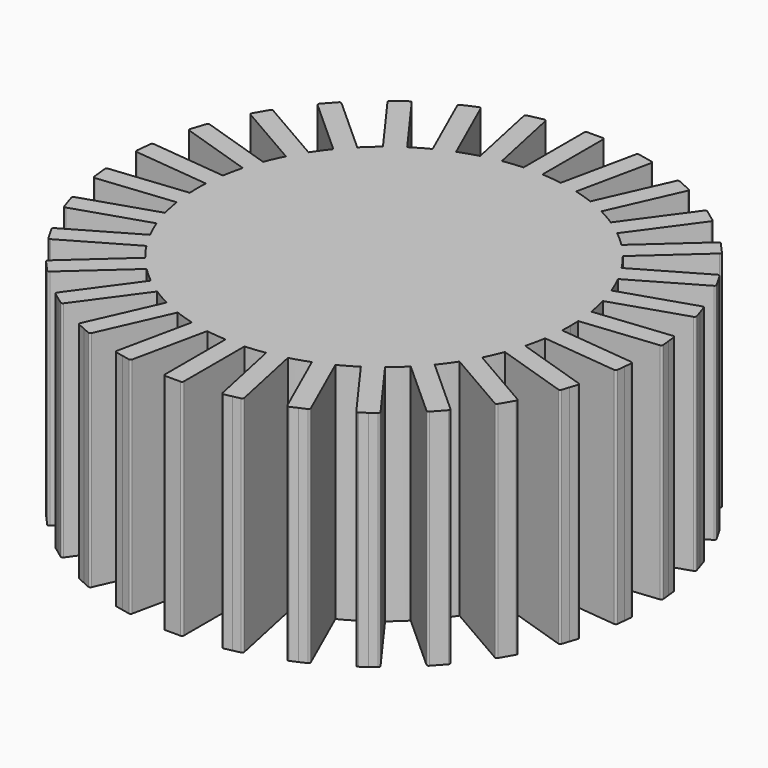
from build123d import *

# Parameters (mm, degrees)
F1_DEPTH = 3


with BuildPart() as f1:
    # F0 (on Top) → F1 (new body)
    with BuildSketch(Plane.XY):
        with BuildLine():
            ThreePointArc((2.4963696521, -0.1346794717), (2.4990922482, -0.0673641958), (2.5, 0))
            ThreePointArc((2.5, 0), (2.4990922482, 0.0673641958), (2.4963696521, 0.1346794717))
            ThreePointArc((2.4963696521, 0.1346794717), (2.4863047384, 0.2613211582), (2.4698194224, 0.3872880331))
            ThreePointArc((2.4698194224, 0.3872880331), (2.4453690018, 0.519779227), (2.4138165491, 0.6507608374))
            ThreePointArc((2.4138165491, 0.6507608374), (2.3776412907, 0.7725424859), (2.3353262325, 0.8923291925))
            ThreePointArc((2.3353262325, 0.8923291925), (2.2838636441, 1.0168416077), (2.22576808, 1.1384008318))
            ThreePointArc((2.22576808, 1.1384008318), (2.1650635095, 1.25), (2.09876808, 1.3583712844))
            ThreePointArc((2.09876808, 1.3583712844), (2.0225424859, 1.4694631307), (1.9404428655, 1.5762872472))
            ThreePointArc((1.9404428655, 1.5762872472), (1.8578620637, 1.6728265159), (1.7704836915, 1.7650460329))
            ThreePointArc((1.7704836915, 1.7650460329), (1.6728265159, 1.8578620637), (1.5703109865, 1.945282346))
            ThreePointArc((1.5703109865, 1.945282346), (1.4694631307, 2.0225424859), (1.3648206699, 2.0945798001))
            ThreePointArc((1.3648206699, 2.0945798001), (1.25, 2.1650635095), (1.1315489822, 2.2292592718))
            ThreePointArc((1.1315489822, 2.2292592718), (1.0168416077, 2.2838636441), (0.8995084359, 2.3325703792))
            ThreePointArc((0.8995084359, 2.3325703792), (0.7725424859, 2.3776412907), (0.6433328575, 2.4158068703))
            ThreePointArc((0.6433328575, 2.4158068703), (0.519779227, 2.4453690018), (0.394883367, 2.4686164397))
            ThreePointArc((0.394883367, 2.4686164397), (0.2613211582, 2.4863047384), (0.127, 2.4967721162))
            ThreePointArc((0.127, 2.4967721162), (0.0381834676, 2.4997083876), (-0.0506813104, 2.4994862282))
            Line((-0.0506813104, 2.4994862282), (-0.127, 2.4967721162))
            ThreePointArc((-0.127, 2.4967721162), (-0.2613211582, 2.4863047384), (-0.394883367, 2.4686164397))
            ThreePointArc((-0.394883367, 2.4686164397), (-0.519779227, 2.4453690018), (-0.6433328575, 2.4158068703))
            ThreePointArc((-0.6433328575, 2.4158068703), (-0.7725424859, 2.3776412907), (-0.8995084359, 2.3325703792))
            ThreePointArc((-0.8995084359, 2.3325703792), (-1.0168416077, 2.2838636441), (-1.1315489822, 2.2292592718))
            ThreePointArc((-1.1315489822, 2.2292592718), (-1.25, 2.1650635095), (-1.3648206699, 2.0945798001))
            ThreePointArc((-1.3648206699, 2.0945798001), (-1.4694631307, 2.0225424859), (-1.5703109865, 1.945282346))
            ThreePointArc((-1.5703109865, 1.945282346), (-1.6728265159, 1.8578620637), (-1.7704836915, 1.7650460329))
            ThreePointArc((-1.7704836915, 1.7650460329), (-1.8578620637, 1.6728265159), (-1.9404428655, 1.5762872472))
            ThreePointArc((-1.9404428655, 1.5762872472), (-2.0225424859, 1.4694631307), (-2.09876808, 1.3583712844))
            ThreePointArc((-2.09876808, 1.3583712844), (-2.1650635095, 1.25), (-2.22576808, 1.1384008318))
            ThreePointArc((-2.22576808, 1.1384008318), (-2.2838636441, 1.0168416077), (-2.3353262325, 0.8923291925))
            ThreePointArc((-2.3353262325, 0.8923291925), (-2.3776412907, 0.7725424859), (-2.4138165491, 0.6507608374))
            ThreePointArc((-2.4138165491, 0.6507608374), (-2.4453690018, 0.519779227), (-2.4698194224, 0.3872880331))
            ThreePointArc((-2.4698194224, 0.3872880331), (-2.4863047384, 0.2613211582), (-2.4963696521, 0.1346794717))
            ThreePointArc((-2.4963696521, 0.1346794717), (-2.5, 0), (-2.4963696521, -0.1346794717))
            ThreePointArc((-2.4963696521, -0.1346794717), (-2.4863047384, -0.2613211582), (-2.4698194224, -0.3872880331))
            ThreePointArc((-2.4698194224, -0.3872880331), (-2.4453690018, -0.519779227), (-2.4138165491, -0.6507608374))
            ThreePointArc((-2.4138165491, -0.6507608374), (-2.3776412907, -0.7725424859), (-2.3353262325, -0.8923291925))
            ThreePointArc((-2.3353262325, -0.8923291925), (-2.2838636441, -1.0168416077), (-2.22576808, -1.1384008318))
            ThreePointArc((-2.22576808, -1.1384008318), (-2.1650635095, -1.25), (-2.09876808, -1.3583712844))
            ThreePointArc((-2.09876808, -1.3583712844), (-2.0225424859, -1.4694631307), (-1.9404428655, -1.5762872472))
            ThreePointArc((-1.9404428655, -1.5762872472), (-1.8578620637, -1.6728265159), (-1.7704836915, -1.7650460329))
            ThreePointArc((-1.7704836915, -1.7650460329), (-1.6728265159, -1.8578620637), (-1.5703109865, -1.945282346))
            ThreePointArc((-1.5703109865, -1.945282346), (-1.4694631307, -2.0225424859), (-1.3648206699, -2.0945798001))
            ThreePointArc((-1.3648206699, -2.0945798001), (-1.25, -2.1650635095), (-1.1315489822, -2.2292592718))
            ThreePointArc((-1.1315489822, -2.2292592718), (-1.0168416077, -2.2838636441), (-0.8995084359, -2.3325703792))
            ThreePointArc((-0.8995084359, -2.3325703792), (-0.7725424859, -2.3776412907), (-0.6433328575, -2.4158068703))
            ThreePointArc((-0.6433328575, -2.4158068703), (-0.519779227, -2.4453690018), (-0.394883367, -2.4686164397))
            ThreePointArc((-0.394883367, -2.4686164397), (-0.2613211582, -2.4863047384), (-0.127, -2.4967721162))
            ThreePointArc((-0.127, -2.4967721162), (0, -2.5), (0.127, -2.4967721162))
            ThreePointArc((0.127, -2.4967721162), (0.2613211582, -2.4863047384), (0.394883367, -2.4686164397))
            ThreePointArc((0.394883367, -2.4686164397), (0.519779227, -2.4453690018), (0.6433328575, -2.4158068703))
            ThreePointArc((0.6433328575, -2.4158068703), (0.7725424859, -2.3776412907), (0.8995084359, -2.3325703792))
            ThreePointArc((0.8995084359, -2.3325703792), (1.0168416077, -2.2838636441), (1.1315489822, -2.2292592718))
            ThreePointArc((1.1315489822, -2.2292592718), (1.25, -2.1650635095), (1.3648206699, -2.0945798001))
            ThreePointArc((1.3648206699, -2.0945798001), (1.4694631307, -2.0225424859), (1.5703109865, -1.945282346))
            ThreePointArc((1.5703109865, -1.945282346), (1.6728265159, -1.8578620637), (1.7704836915, -1.7650460329))
            ThreePointArc((1.7704836915, -1.7650460329), (1.8578620637, -1.6728265159), (1.9404428655, -1.5762872472))
            ThreePointArc((1.9404428655, -1.5762872472), (2.0225424859, -1.4694631307), (2.09876808, -1.3583712844))
            ThreePointArc((2.09876808, -1.3583712844), (2.1650635095, -1.25), (2.22576808, -1.1384008318))
            ThreePointArc((2.22576808, -1.1384008318), (2.2838636441, -1.0168416077), (2.3353262325, -0.8923291925))
            ThreePointArc((2.3353262325, -0.8923291925), (2.3776412907, -0.7725424859), (2.4138165491, -0.6507608374))
            ThreePointArc((2.4138165491, -0.6507608374), (2.4453690018, -0.519779227), (2.4698194224, -0.3872880331))
            ThreePointArc((2.4698194224, -0.3872880331), (2.4863047384, -0.2613211582), (2.4963696521, -0.1346794717))
        make_face()
        with BuildLine():
            ThreePointArc((2.4698194224, 0.3872880331), (2.4863047384, 0.2613211582), (2.4963696521, 0.1346794717))
            Line((2.4963696521, 0.1346794717), (3.5068038978, 0.2408803904))
            ThreePointArc((3.5068038978, 0.2408803904), (3.5238883822, 0.2501565086), (3.529409731, 0.2687962695))
            Line((3.529409731, 0.2687962695), (3.5187896391, 0.3698396941))
            Line((3.5187896391, 0.3698396941), (3.5081695472, 0.4708831186))
            ThreePointArc((3.5081695472, 0.4708831186), (3.498893429, 0.4879676031), (3.4802536681, 0.4934889518))
            Line((3.4802536681, 0.4934889518), (2.4698194224, 0.3872880331))
        make_face()
        with BuildLine():
            Line((3.5068038978, -0.2408803904), (2.4963696521, -0.1346794717))
            ThreePointArc((2.4963696521, -0.1346794717), (2.4863047384, -0.2613211582), (2.4698194224, -0.3872880331))
            Line((2.4698194224, -0.3872880331), (3.4802536681, -0.4934889518))
            ThreePointArc((3.4802536681, -0.4934889518), (3.498893429, -0.4879676031), (3.5081695472, -0.4708831186))
            Line((3.5081695472, -0.4708831186), (3.5187896391, -0.3698396941))
            Line((3.5187896391, -0.3698396941), (3.529409731, -0.2687962695))
            ThreePointArc((3.529409731, -0.2687962695), (3.5238883822, -0.2501565086), (3.5068038978, -0.2408803904))
        make_face()
        with BuildLine():
            ThreePointArc((2.3353262325, 0.8923291925), (2.3776412907, 0.7725424859), (2.4138165491, 0.6507608374))
            Line((2.4138165491, 0.6507608374), (3.3800899696, 0.9647221037))
            ThreePointArc((3.3800899696, 0.9647221037), (3.3948725037, 0.9773475805), (3.3963977735, 0.9967279709))
            Line((3.3963977735, 0.9967279709), (3.3650016468, 1.0933553129))
            Line((3.3650016468, 1.0933553129), (3.3336055202, 1.189982655))
            ThreePointArc((3.3336055202, 1.189982655), (3.3209800434, 1.204765189), (3.301599653, 1.2062904588))
            Line((3.301599653, 1.2062904588), (2.3353262325, 0.8923291925))
        make_face()
        with BuildLine():
            Line((3.3800899696, -0.9647221037), (2.4138165491, -0.6507608374))
            ThreePointArc((2.4138165491, -0.6507608374), (2.3776412907, -0.7725424859), (2.3353262325, -0.8923291925))
            Line((2.3353262325, -0.8923291925), (3.301599653, -1.2062904588))
            ThreePointArc((3.301599653, -1.2062904588), (3.3209800434, -1.204765189), (3.3336055202, -1.189982655))
            Line((3.3336055202, -1.189982655), (3.3650016468, -1.0933553129))
            Line((3.3650016468, -1.0933553129), (3.3963977735, -0.9967279709))
            ThreePointArc((3.3963977735, -0.9967279709), (3.3948725037, -0.9773475805), (3.3800899696, -0.9647221037))
        make_face()
        with BuildLine():
            ThreePointArc((2.09876808, 1.3583712844), (2.1650635095, 1.25), (2.22576808, 1.1384008318))
            Line((2.22576808, 1.1384008318), (3.1056498903, 1.6464008318))
            ThreePointArc((3.1056498903, 1.6464008318), (3.1174844063, 1.6618238733), (3.1149469356, 1.6810978771))
            Line((3.1149469356, 1.6810978771), (3.0641469356, 1.7690860581))
            Line((3.0641469356, 1.7690860581), (3.0133469356, 1.8570742391))
            ThreePointArc((3.0133469356, 1.8570742391), (2.997923894, 1.8689087551), (2.9786498903, 1.8663712844))
            Line((2.9786498903, 1.8663712844), (2.09876808, 1.3583712844))
        make_face()
        with BuildLine():
            Line((3.1056498903, -1.6464008318), (2.22576808, -1.1384008318))
            ThreePointArc((2.22576808, -1.1384008318), (2.1650635095, -1.25), (2.09876808, -1.3583712844))
            Line((2.09876808, -1.3583712844), (2.9786498903, -1.8663712844))
            ThreePointArc((2.9786498903, -1.8663712844), (2.997923894, -1.8689087551), (3.0133469356, -1.8570742391))
            Line((3.0133469356, -1.8570742391), (3.0641469356, -1.7690860581))
            Line((3.0641469356, -1.7690860581), (3.1149469356, -1.6810978771))
            ThreePointArc((3.1149469356, -1.6810978771), (3.1174844063, -1.6618238733), (3.1056498903, -1.6464008318))
        make_face()
        with BuildLine():
            ThreePointArc((1.7704836915, 1.7650460329), (1.8578620637, 1.6728265159), (1.9404428655, 1.5762872472))
            Line((1.9404428655, 1.5762872472), (2.6954780082, 2.2561239432))
            ThreePointArc((2.6954780082, 2.2561239432), (2.703847281, 2.2736704885), (2.6973579694, 2.2919957392))
            Line((2.6973579694, 2.2919957392), (2.6293742998, 2.3674992535))
            Line((2.6293742998, 2.3674992535), (2.5613906302, 2.4430027678))
            ThreePointArc((2.5613906302, 2.4430027678), (2.5438440849, 2.4513720405), (2.5255188342, 2.4448827289))
            Line((2.5255188342, 2.4448827289), (1.7704836915, 1.7650460329))
        make_face()
        with BuildLine():
            Line((2.6954780082, -2.2561239432), (1.9404428655, -1.5762872472))
            ThreePointArc((1.9404428655, -1.5762872472), (1.8578620637, -1.6728265159), (1.7704836915, -1.7650460329))
            Line((1.7704836915, -1.7650460329), (2.5255188342, -2.4448827289))
            ThreePointArc((2.5255188342, -2.4448827289), (2.5438440849, -2.4513720405), (2.5613906302, -2.4430027678))
            Line((2.5613906302, -2.4430027678), (2.6293742998, -2.3674992535))
            Line((2.6293742998, -2.3674992535), (2.6973579694, -2.2919957392))
            ThreePointArc((2.6973579694, -2.2919957392), (2.703847281, -2.2736704885), (2.6954780082, -2.2561239432))
        make_face()
        with BuildLine():
            ThreePointArc((1.3648206699, 2.0945798001), (1.4694631307, 2.0225424859), (1.5703109865, 1.945282346))
            Line((1.5703109865, 1.945282346), (2.1675008028, 2.7672436123))
            ThreePointArc((2.1675008028, 2.7672436123), (2.172039055, 2.7861467931), (2.1618815166, 2.8027223894))
            Line((2.1618815166, 2.8027223894), (2.0796853899, 2.862441371))
            Line((2.0796853899, 2.862441371), (1.9974892633, 2.9221603526))
            ThreePointArc((1.9974892633, 2.9221603526), (1.9785860825, 2.9266986048), (1.9620104863, 2.9165410664))
            Line((1.9620104863, 2.9165410664), (1.3648206699, 2.0945798001))
        make_face()
        with BuildLine():
            Line((2.1675008028, -2.7672436123), (1.5703109865, -1.945282346))
            ThreePointArc((1.5703109865, -1.945282346), (1.4694631307, -2.0225424859), (1.3648206699, -2.0945798001))
            Line((1.3648206699, -2.0945798001), (1.9620104863, -2.9165410664))
            ThreePointArc((1.9620104863, -2.9165410664), (1.9785860825, -2.9266986048), (1.9974892633, -2.9221603526))
            Line((1.9974892633, -2.9221603526), (2.0796853899, -2.862441371))
            Line((2.0796853899, -2.862441371), (2.1618815166, -2.8027223894))
            ThreePointArc((2.1618815166, -2.8027223894), (2.172039055, -2.7861467931), (2.1675008028, -2.7672436123))
        make_face()
        with BuildLine():
            ThreePointArc((0.8995084359, 2.3325703792), (1.0168416077, 2.2838636441), (1.1315489822, 2.2292592718))
            Line((1.1315489822, 2.2292592718), (1.5447934115, 3.1574214568))
            ThreePointArc((1.5447934115, 3.1574214568), (1.5453022997, 3.1768551134), (1.5319204676, 3.1909566221))
            Line((1.5319204676, 3.1909566221), (1.4391042491, 3.2322810651))
            Line((1.4391042491, 3.2322810651), (1.3462880307, 3.273605508))
            ThreePointArc((1.3462880307, 3.273605508), (1.326854374, 3.2741143962), (1.3127528653, 3.2607325641))
            Line((1.3127528653, 3.2607325641), (0.8995084359, 2.3325703792))
        make_face()
        with BuildLine():
            Line((1.5447934115, -3.1574214568), (1.1315489822, -2.2292592718))
            ThreePointArc((1.1315489822, -2.2292592718), (1.0168416077, -2.2838636441), (0.8995084359, -2.3325703792))
            Line((0.8995084359, -2.3325703792), (1.3127528653, -3.2607325641))
            ThreePointArc((1.3127528653, -3.2607325641), (1.326854374, -3.2741143962), (1.3462880307, -3.273605508))
            Line((1.3462880307, -3.273605508), (1.4391042491, -3.2322810651))
            Line((1.4391042491, -3.2322810651), (1.5319204676, -3.1909566221))
            ThreePointArc((1.5319204676, -3.1909566221), (1.5453022997, -3.1768551134), (1.5447934115, -3.1574214568))
        make_face()
        with BuildLine():
            ThreePointArc((0.394883367, 2.4686164397), (0.519779227, 2.4453690018), (0.6433328575, 2.4158068703))
            Line((0.6433328575, 2.4158068703), (0.8545711354, 3.4096048326))
            ThreePointArc((0.8545711354, 3.4096048326), (0.8510284188, 3.428719621), (0.8350071433, 3.4397307386))
            Line((0.8350071433, 3.4397307386), (0.7356273471, 3.4608545664))
            Line((0.7356273471, 3.4608545664), (0.6362475508, 3.4819783942))
            ThreePointArc((0.6362475508, 3.4819783942), (0.6171327624, 3.4784356776), (0.6061216448, 3.4624144021))
            Line((0.6061216448, 3.4624144021), (0.394883367, 2.4686164397))
        make_face()
        with BuildLine():
            Line((0.8545711354, -3.4096048326), (0.6433328575, -2.4158068703))
            ThreePointArc((0.6433328575, -2.4158068703), (0.519779227, -2.4453690018), (0.394883367, -2.4686164397))
            Line((0.394883367, -2.4686164397), (0.6061216448, -3.4624144021))
            ThreePointArc((0.6061216448, -3.4624144021), (0.6171327624, -3.4784356776), (0.6362475508, -3.4819783942))
            Line((0.6362475508, -3.4819783942), (0.7356273471, -3.4608545664))
            Line((0.7356273471, -3.4608545664), (0.8350071433, -3.4397307386))
            ThreePointArc((0.8350071433, -3.4397307386), (0.8510284188, -3.428719621), (0.8545711354, -3.4096048326))
        make_face()
        with BuildLine():
            ThreePointArc((-0.0506813104, 2.4994862282), (0.0381834676, 2.4997083876), (0.127, 2.4967721162))
            Line((0.127, 2.4967721162), (0.127, 3.5127721162))
            ThreePointArc((0.127, 3.5127721162), (0.1195605122, 3.5307326284), (0.1016, 3.5381721162))
            Line((0.1016, 3.5381721162), (0, 3.5381721162))
            Line((0, 3.5381721162), (-0.1016, 3.5381721162))
            ThreePointArc((-0.1016, 3.5381721162), (-0.1195605122, 3.5307326284), (-0.127, 3.5127721162))
            Line((-0.127, 3.5127721162), (-0.127, 2.4967721162))
            ThreePointArc((-0.127, 2.4967721162), (-0.0888510192, 2.4984206004), (-0.0506813104, 2.4994862282))
        make_face()
        with BuildLine():
            Line((0.127, -3.5127721162), (0.127, -2.4967721162))
            ThreePointArc((0.127, -2.4967721162), (0, -2.5), (-0.127, -2.4967721162))
            Line((-0.127, -2.4967721162), (-0.127, -3.5127721162))
            ThreePointArc((-0.127, -3.5127721162), (-0.1195605122, -3.5307326284), (-0.1016, -3.5381721162))
            Line((-0.1016, -3.5381721162), (0, -3.5381721162))
            Line((0, -3.5381721162), (0.1016, -3.5381721162))
            ThreePointArc((0.1016, -3.5381721162), (0.1195605122, -3.5307326284), (0.127, -3.5127721162))
        make_face()
        with BuildLine():
            Line((-0.127, 2.4967721162), (-0.0506813104, 2.4994862282))
            ThreePointArc((-0.0506813104, 2.4994862282), (-0.0888510192, 2.4984206004), (-0.127, 2.4967721162))
        make_face()
        with BuildLine():
            Line((-0.6061216448, -3.4624144021), (-0.394883367, -2.4686164397))
            ThreePointArc((-0.394883367, -2.4686164397), (-0.519779227, -2.4453690018), (-0.6433328575, -2.4158068703))
            Line((-0.6433328575, -2.4158068703), (-0.8545711354, -3.4096048326))
            ThreePointArc((-0.8545711354, -3.4096048326), (-0.8510284188, -3.428719621), (-0.8350071433, -3.4397307386))
            Line((-0.8350071433, -3.4397307386), (-0.7356273471, -3.4608545664))
            Line((-0.7356273471, -3.4608545664), (-0.6362475508, -3.4819783942))
            ThreePointArc((-0.6362475508, -3.4819783942), (-0.6171327624, -3.4784356776), (-0.6061216448, -3.4624144021))
        make_face()
        with BuildLine():
            ThreePointArc((-0.6433328575, 2.4158068703), (-0.519779227, 2.4453690018), (-0.394883367, 2.4686164397))
            Line((-0.394883367, 2.4686164397), (-0.6061216448, 3.4624144021))
            ThreePointArc((-0.6061216448, 3.4624144021), (-0.6171327624, 3.4784356776), (-0.6362475508, 3.4819783942))
            Line((-0.6362475508, 3.4819783942), (-0.7356273471, 3.4608545664))
            Line((-0.7356273471, 3.4608545664), (-0.8350071433, 3.4397307386))
            ThreePointArc((-0.8350071433, 3.4397307386), (-0.8510284188, 3.428719621), (-0.8545711354, 3.4096048326))
            Line((-0.8545711354, 3.4096048326), (-0.6433328575, 2.4158068703))
        make_face()
        with BuildLine():
            Line((-1.3127528653, -3.2607325641), (-0.8995084359, -2.3325703792))
            ThreePointArc((-0.8995084359, -2.3325703792), (-1.0168416077, -2.2838636441), (-1.1315489822, -2.2292592718))
            Line((-1.1315489822, -2.2292592718), (-1.5447934115, -3.1574214568))
            ThreePointArc((-1.5447934115, -3.1574214568), (-1.5453022997, -3.1768551134), (-1.5319204676, -3.1909566221))
            Line((-1.5319204676, -3.1909566221), (-1.4391042491, -3.2322810651))
            Line((-1.4391042491, -3.2322810651), (-1.3462880307, -3.273605508))
            ThreePointArc((-1.3462880307, -3.273605508), (-1.326854374, -3.2741143962), (-1.3127528653, -3.2607325641))
        make_face()
        with BuildLine():
            ThreePointArc((-1.1315489822, 2.2292592718), (-1.0168416077, 2.2838636441), (-0.8995084359, 2.3325703792))
            Line((-0.8995084359, 2.3325703792), (-1.3127528653, 3.2607325641))
            ThreePointArc((-1.3127528653, 3.2607325641), (-1.326854374, 3.2741143962), (-1.3462880307, 3.273605508))
            Line((-1.3462880307, 3.273605508), (-1.4391042491, 3.2322810651))
            Line((-1.4391042491, 3.2322810651), (-1.5319204676, 3.1909566221))
            ThreePointArc((-1.5319204676, 3.1909566221), (-1.5453022997, 3.1768551134), (-1.5447934115, 3.1574214568))
            Line((-1.5447934115, 3.1574214568), (-1.1315489822, 2.2292592718))
        make_face()
        with BuildLine():
            Line((-1.9620104863, -2.9165410664), (-1.3648206699, -2.0945798001))
            ThreePointArc((-1.3648206699, -2.0945798001), (-1.4694631307, -2.0225424859), (-1.5703109865, -1.945282346))
            Line((-1.5703109865, -1.945282346), (-2.1675008028, -2.7672436123))
            ThreePointArc((-2.1675008028, -2.7672436123), (-2.172039055, -2.7861467931), (-2.1618815166, -2.8027223894))
            Line((-2.1618815166, -2.8027223894), (-2.0796853899, -2.862441371))
            Line((-2.0796853899, -2.862441371), (-1.9974892633, -2.9221603526))
            ThreePointArc((-1.9974892633, -2.9221603526), (-1.9785860825, -2.9266986048), (-1.9620104863, -2.9165410664))
        make_face()
        with BuildLine():
            ThreePointArc((-1.5703109865, 1.945282346), (-1.4694631307, 2.0225424859), (-1.3648206699, 2.0945798001))
            Line((-1.3648206699, 2.0945798001), (-1.9620104863, 2.9165410664))
            ThreePointArc((-1.9620104863, 2.9165410664), (-1.9785860825, 2.9266986048), (-1.9974892633, 2.9221603526))
            Line((-1.9974892633, 2.9221603526), (-2.0796853899, 2.862441371))
            Line((-2.0796853899, 2.862441371), (-2.1618815166, 2.8027223894))
            ThreePointArc((-2.1618815166, 2.8027223894), (-2.172039055, 2.7861467931), (-2.1675008028, 2.7672436123))
            Line((-2.1675008028, 2.7672436123), (-1.5703109865, 1.945282346))
        make_face()
        with BuildLine():
            Line((-2.5255188342, -2.4448827289), (-1.7704836915, -1.7650460329))
            ThreePointArc((-1.7704836915, -1.7650460329), (-1.8578620637, -1.6728265159), (-1.9404428655, -1.5762872472))
            Line((-1.9404428655, -1.5762872472), (-2.6954780082, -2.2561239432))
            ThreePointArc((-2.6954780082, -2.2561239432), (-2.703847281, -2.2736704885), (-2.6973579694, -2.2919957392))
            Line((-2.6973579694, -2.2919957392), (-2.6293742998, -2.3674992535))
            Line((-2.6293742998, -2.3674992535), (-2.5613906302, -2.4430027678))
            ThreePointArc((-2.5613906302, -2.4430027678), (-2.5438440849, -2.4513720405), (-2.5255188342, -2.4448827289))
        make_face()
        with BuildLine():
            ThreePointArc((-1.9404428655, 1.5762872472), (-1.8578620637, 1.6728265159), (-1.7704836915, 1.7650460329))
            Line((-1.7704836915, 1.7650460329), (-2.5255188342, 2.4448827289))
            ThreePointArc((-2.5255188342, 2.4448827289), (-2.5438440849, 2.4513720405), (-2.5613906302, 2.4430027678))
            Line((-2.5613906302, 2.4430027678), (-2.6293742998, 2.3674992535))
            Line((-2.6293742998, 2.3674992535), (-2.6973579694, 2.2919957392))
            ThreePointArc((-2.6973579694, 2.2919957392), (-2.703847281, 2.2736704885), (-2.6954780082, 2.2561239432))
            Line((-2.6954780082, 2.2561239432), (-1.9404428655, 1.5762872472))
        make_face()
        with BuildLine():
            Line((-2.9786498903, -1.8663712844), (-2.09876808, -1.3583712844))
            ThreePointArc((-2.09876808, -1.3583712844), (-2.1650635095, -1.25), (-2.22576808, -1.1384008318))
            Line((-2.22576808, -1.1384008318), (-3.1056498903, -1.6464008318))
            ThreePointArc((-3.1056498903, -1.6464008318), (-3.1174844063, -1.6618238733), (-3.1149469356, -1.6810978771))
            Line((-3.1149469356, -1.6810978771), (-3.0641469356, -1.7690860581))
            Line((-3.0641469356, -1.7690860581), (-3.0133469356, -1.8570742391))
            ThreePointArc((-3.0133469356, -1.8570742391), (-2.997923894, -1.8689087551), (-2.9786498903, -1.8663712844))
        make_face()
        with BuildLine():
            ThreePointArc((-2.22576808, 1.1384008318), (-2.1650635095, 1.25), (-2.09876808, 1.3583712844))
            Line((-2.09876808, 1.3583712844), (-2.9786498903, 1.8663712844))
            ThreePointArc((-2.9786498903, 1.8663712844), (-2.997923894, 1.8689087551), (-3.0133469356, 1.8570742391))
            Line((-3.0133469356, 1.8570742391), (-3.0641469356, 1.7690860581))
            Line((-3.0641469356, 1.7690860581), (-3.1149469356, 1.6810978771))
            ThreePointArc((-3.1149469356, 1.6810978771), (-3.1174844063, 1.6618238733), (-3.1056498903, 1.6464008318))
            Line((-3.1056498903, 1.6464008318), (-2.22576808, 1.1384008318))
        make_face()
        with BuildLine():
            Line((-3.301599653, -1.2062904588), (-2.3353262325, -0.8923291925))
            ThreePointArc((-2.3353262325, -0.8923291925), (-2.3776412907, -0.7725424859), (-2.4138165491, -0.6507608374))
            Line((-2.4138165491, -0.6507608374), (-3.3800899696, -0.9647221037))
            ThreePointArc((-3.3800899696, -0.9647221037), (-3.3948725037, -0.9773475805), (-3.3963977735, -0.9967279709))
            Line((-3.3963977735, -0.9967279709), (-3.3650016468, -1.0933553129))
            Line((-3.3650016468, -1.0933553129), (-3.3336055202, -1.189982655))
            ThreePointArc((-3.3336055202, -1.189982655), (-3.3209800434, -1.204765189), (-3.301599653, -1.2062904588))
        make_face()
        with BuildLine():
            ThreePointArc((-2.4138165491, 0.6507608374), (-2.3776412907, 0.7725424859), (-2.3353262325, 0.8923291925))
            Line((-2.3353262325, 0.8923291925), (-3.301599653, 1.2062904588))
            ThreePointArc((-3.301599653, 1.2062904588), (-3.3209800434, 1.204765189), (-3.3336055202, 1.189982655))
            Line((-3.3336055202, 1.189982655), (-3.3650016468, 1.0933553129))
            Line((-3.3650016468, 1.0933553129), (-3.3963977735, 0.9967279709))
            ThreePointArc((-3.3963977735, 0.9967279709), (-3.3948725037, 0.9773475805), (-3.3800899696, 0.9647221037))
            Line((-3.3800899696, 0.9647221037), (-2.4138165491, 0.6507608374))
        make_face()
        with BuildLine():
            Line((-3.4802536681, -0.4934889518), (-2.4698194224, -0.3872880331))
            ThreePointArc((-2.4698194224, -0.3872880331), (-2.4863047384, -0.2613211582), (-2.4963696521, -0.1346794717))
            Line((-2.4963696521, -0.1346794717), (-3.5068038978, -0.2408803904))
            ThreePointArc((-3.5068038978, -0.2408803904), (-3.5238883822, -0.2501565086), (-3.529409731, -0.2687962695))
            Line((-3.529409731, -0.2687962695), (-3.5187896391, -0.3698396941))
            Line((-3.5187896391, -0.3698396941), (-3.5081695472, -0.4708831186))
            ThreePointArc((-3.5081695472, -0.4708831186), (-3.498893429, -0.4879676031), (-3.4802536681, -0.4934889518))
        make_face()
        with BuildLine():
            ThreePointArc((-2.4963696521, 0.1346794717), (-2.4863047384, 0.2613211582), (-2.4698194224, 0.3872880331))
            Line((-2.4698194224, 0.3872880331), (-3.4802536681, 0.4934889518))
            ThreePointArc((-3.4802536681, 0.4934889518), (-3.498893429, 0.4879676031), (-3.5081695472, 0.4708831186))
            Line((-3.5081695472, 0.4708831186), (-3.5187896391, 0.3698396941))
            Line((-3.5187896391, 0.3698396941), (-3.529409731, 0.2687962695))
            ThreePointArc((-3.529409731, 0.2687962695), (-3.5238883822, 0.2501565086), (-3.5068038978, 0.2408803904))
            Line((-3.5068038978, 0.2408803904), (-2.4963696521, 0.1346794717))
        make_face()
    extrude(amount=F1_DEPTH)


solid = f1.part
